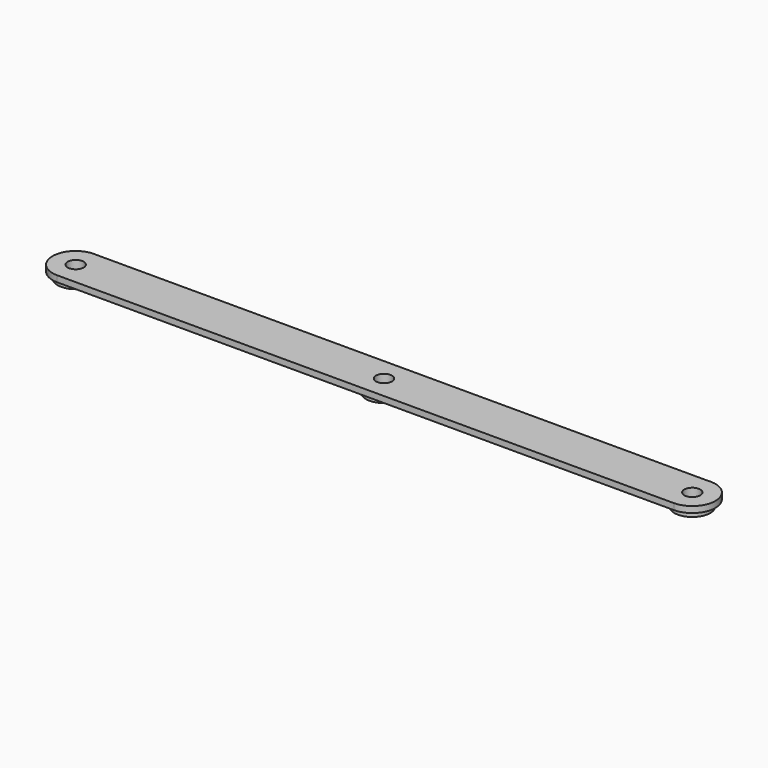
from build123d import *

# Parameters (mm, degrees)
F1_DEPTH = 1.2
F2_R     = 3.5
F3_DEPTH = 1.2
F4_R     = 1.55
F5_DEPTH = 2.4


with BuildPart() as f1:
    # F0 (on Top) → F1 (new body)
    with BuildSketch(Plane.XY):
        with BuildLine():
            Line((59.5437594947, 4.4768118791), (-59.5437594947, 4.4768118791))
            ThreePointArc((-59.5437594947, 4.4768118791), (-64.494199231, 0.2284146929), (-60, -4.5))
            Line((-60, -4.5), (60, -4.5))
            ThreePointArc((60, -4.5), (64.494199231, 0.2284146929), (59.5437594947, 4.4768118791))
        make_face()
    extrude(amount=F1_DEPTH)

    # F2 (on face) → F3 (join)
    with BuildSketch(Plane.XY):
        with Locations((-60, 0)):
            Circle(F2_R)
        Circle(F2_R)
        with Locations((60, 0)):
            Circle(F2_R)
    extrude(amount=-F3_DEPTH)

    # F4 (on face) → F5 (cut, through all)
    with BuildSketch(Plane(origin=(0, 0, -1.2), x_dir=(1, 0, 0), z_dir=(0, 0, -1))):
        with Locations((60, 0)):
            Circle(F4_R)
        Circle(F4_R)
        with Locations((-60, 0)):
            Circle(F4_R)
    extrude(amount=-F5_DEPTH, mode=Mode.SUBTRACT)


solid = f1.part
